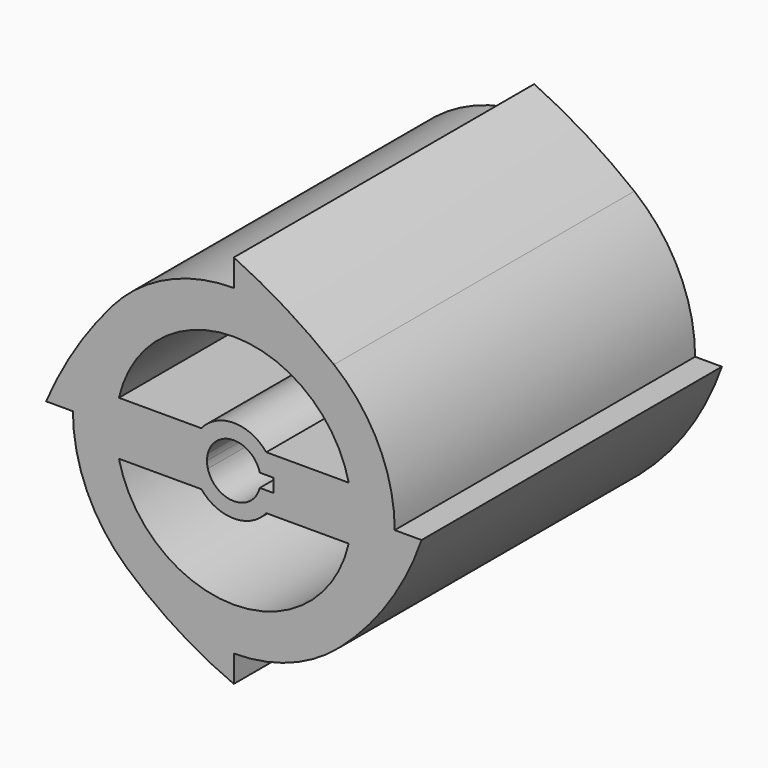
from build123d import *

# Parameters (mm, degrees)
F1_DEPTH = 88.9


with BuildPart() as f1:
    # F0 (on Front) → F1 (new body)
    with BuildSketch(Plane.XZ):
        with BuildLine():
            Line((9.9733600981, 0), (38.1, 0))
            ThreePointArc((38.1, 0), (34.3137442359, 16.5582896616), (23.7075088443, 29.8255599176))
            ThreePointArc((23.7075088443, 29.8255599176), (12.5550023325, 35.9719601416), (0, 38.1))
            ThreePointArc((0, 38.1), (-15.8184490109, 34.6610252429), (-28.7812945128, 24.9649171071))
            ThreePointArc((-28.7812945128, 24.9649171071), (-35.6943785556, 13.3237134287), (-38.1, 0))
            Line((-38.1, 0), (-9.9733600981, 0))
            ThreePointArc((-9.9733600981, 0), (-9.38533667, 3.3739246044), (-7.6906054148, 6.35))
            Line((-7.6906054148, 6.35), (-27.2088423127, 6.35))
            ThreePointArc((-27.2088423127, 6.35), (0, 27.94), (27.2088423127, 6.35))
            Line((27.2088423127, 6.35), (7.6906054148, 6.35))
            ThreePointArc((7.6906054148, 6.35), (9.38533667, 3.3739246044), (9.9733600981, 0))
        make_face()
        with BuildLine():
            Line((44.45, 0), (38.1, 0))
            ThreePointArc((38.1, 0), (34.6839293822, -15.7681654802), (25.0482917265, -28.7087631497))
            ThreePointArc((25.0482917265, -28.7087631497), (36.6190780289, -15.6181029752), (44.45, 0))
        make_face()
        with BuildLine():
            ThreePointArc((25.0482917265, -28.7087631497), (34.6839293822, -15.7681654802), (38.1, 0))
            Line((38.1, 0), (9.9733600981, 0))
            ThreePointArc((9.9733600981, 0), (9.38533667, -3.3739246044), (7.6906054148, -6.35))
            Line((7.6906054148, -6.35), (27.2088423127, -6.35))
            ThreePointArc((27.2088423127, -6.35), (0, -27.94), (-27.2088423127, -6.35))
            Line((-27.2088423127, -6.35), (-7.6906054148, -6.35))
            ThreePointArc((-7.6906054148, -6.35), (-9.38533667, -3.3739246044), (-9.9733600981, 0))
            Line((-9.9733600981, 0), (-38.1, 0))
            ThreePointArc((-38.1, 0), (-34.7686488709, -15.5804703297), (-25.3571624308, -28.4363203221))
            ThreePointArc((-25.3571624308, -28.4363203221), (-13.5680911651, -35.6022036135), (0, -38.1))
            ThreePointArc((0, -38.1), (13.3754649265, -35.6750184023), (25.0482917265, -28.7087631497))
        make_face()
        with BuildLine():
            ThreePointArc((0, 38.1), (12.5550023325, 35.9719601416), (23.7075088443, 29.8255599176))
            ThreePointArc((23.7075088443, 29.8255599176), (12.2888873877, 37.8431689221), (0, 44.45))
            Line((0, 44.45), (0, 38.1))
        make_face()
        with BuildLine():
            Line((0, -44.45), (0, -38.1))
            ThreePointArc((0, -38.1), (-13.5680911651, -35.6022036135), (-25.3571624308, -28.4363203221))
            ThreePointArc((-25.3571624308, -28.4363203221), (-13.3404167742, -37.491156131), (0, -44.45))
        make_face()
        with BuildLine():
            ThreePointArc((-38.1, 0), (-35.6943785556, 13.3237134287), (-28.7812945128, 24.9649171071))
            ThreePointArc((-28.7812945128, 24.9649171071), (-37.5788399133, 13.0869861794), (-44.45, 0))
            Line((-44.45, 0), (-38.1, 0))
        make_face()
        with BuildLine():
            ThreePointArc((7.6906054148, -6.35), (9.38533667, -3.3739246044), (9.9733600981, 0))
            Line((9.9733600981, 0), (9.3917766557, 0))
            Line((9.3917766557, 0), (9.3917766557, -1.5875))
            Line((9.3917766557, -1.5875), (6.1483610621, -1.5875))
            ThreePointArc((6.1483610621, -1.5875), (0, -6.35), (-6.1483610621, -1.5875))
            Line((-6.1483610621, -1.5875), (-9.3917766557, -1.5875))
            Line((-9.3917766557, -1.5875), (-9.3917766557, 0))
            Line((-9.3917766557, 0), (-9.9733600981, 0))
            ThreePointArc((-9.9733600981, 0), (-9.38533667, -3.3739246044), (-7.6906054148, -6.35))
            ThreePointArc((-7.6906054148, -6.35), (0, -9.9733600981), (7.6906054148, -6.35))
        make_face()
        with BuildLine():
            Line((9.3917766557, 0), (9.9733600981, 0))
            ThreePointArc((9.9733600981, 0), (9.38533667, 3.3739246044), (7.6906054148, 6.35))
            ThreePointArc((7.6906054148, 6.35), (0, 9.9733600981), (-7.6906054148, 6.35))
            ThreePointArc((-7.6906054148, 6.35), (-9.38533667, 3.3739246044), (-9.9733600981, 0))
            Line((-9.9733600981, 0), (-9.3917766557, 0))
            Line((-9.3917766557, 0), (-9.3917766557, 1.5875))
            Line((-9.3917766557, 1.5875), (-6.1483610621, 1.5875))
            ThreePointArc((-6.1483610621, 1.5875), (0, 6.35), (6.1483610621, 1.5875))
            Line((6.1483610621, 1.5875), (9.3917766557, 1.5875))
            Line((9.3917766557, 1.5875), (9.3917766557, 0))
        make_face()
        with BuildLine():
            Line((-9.3917766557, 0), (-6.35, 0))
            ThreePointArc((-6.35, 0), (-6.2993885713, 0.8001272573), (-6.1483610621, 1.5875))
            Line((-6.1483610621, 1.5875), (-9.3917766557, 1.5875))
            Line((-9.3917766557, 1.5875), (-9.3917766557, 0))
        make_face()
        with BuildLine():
            ThreePointArc((-6.1483610621, -1.5875), (-6.2993885713, -0.8001272573), (-6.35, 0))
            Line((-6.35, 0), (-9.3917766557, 0))
            Line((-9.3917766557, 0), (-9.3917766557, -1.5875))
            Line((-9.3917766557, -1.5875), (-6.1483610621, -1.5875))
        make_face()
    extrude(amount=F1_DEPTH)


solid = f1.part
